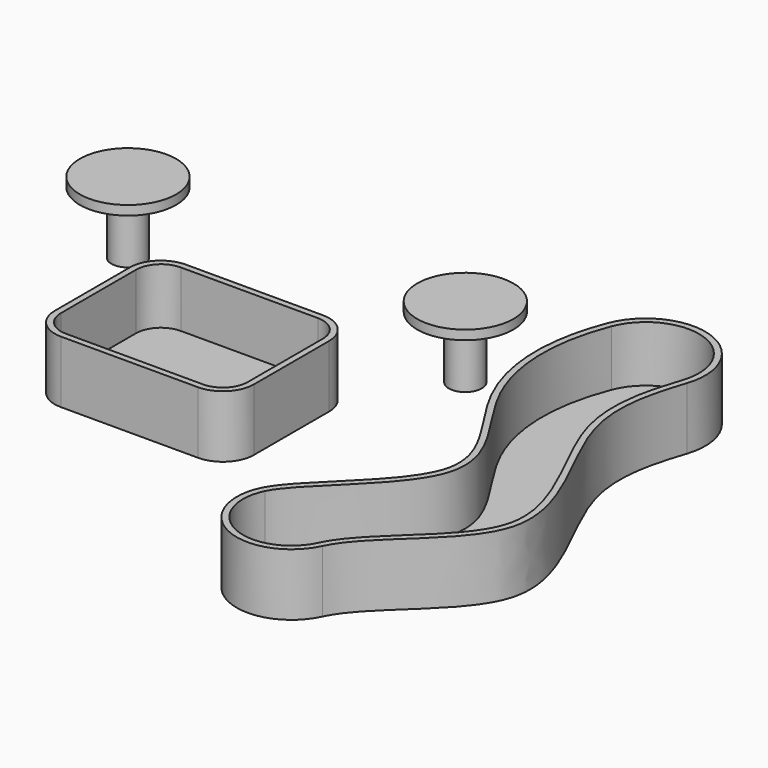
from build123d import *

# Parameters (mm, degrees)
F1_DEPTH = 25.4
F0_R     = 6.7570179325
F2_T     = -2.54
F2_2_T   = -2.54
F3_R     = 19.6881270067
F4_DEPTH = 3.81


with BuildPart() as f1:
    # F0 (on Top) → F1 (new body)
    with BuildSketch(Plane.XY):
        with BuildLine():
            Line((-51.6256136656, 25.91191791), (-107.6706264496, 25.91191791))
            ThreePointArc((-107.6706264496, 25.91191791), (-116.6508825707, 22.192174031), (-120.3706264496, 13.21191791))
            Line((-120.3706264496, 13.21191791), (-120.3706264496, -25.1758167684))
            ThreePointArc((-120.3706264496, -25.1758167684), (-116.6508825707, -34.1560728895), (-107.6706264496, -37.8758167684))
            Line((-107.6706264496, -37.8758167684), (-51.6256136656, -37.8758167684))
            ThreePointArc((-51.6256136656, -37.8758167684), (-42.6453575445, -34.1560728895), (-38.9256136656, -25.1758167684))
            Line((-38.9256136656, -25.1758167684), (-38.9256136656, 13.21191791))
            ThreePointArc((-38.9256136656, 13.21191791), (-42.6453575445, 22.192174031), (-51.6256136656, 25.91191791))
        make_face()
    extrude(amount=F1_DEPTH)

    # F2
    f2_openings = [f1.faces().sort_by_distance(p)[0] for p in [
        (-79.64812, -5.981949, 25.4),
    ]]
    offset(amount=F2_T, openings=f2_openings)


with BuildPart() as f1b:
    # F0 (on Top) → F1, piece 2 (new body)
    with BuildSketch(Plane.XY):
        with Locations((-17.5896137953, 56.1704323828)):
            Circle(F0_R)
    extrude(amount=F1_DEPTH)

    # F3 (on face) → F4 (join)
    with BuildSketch(Plane.XY.offset(25.4)):
        with Locations((-17.5896137953, 56.1704323828)):
            Circle(F3_R)
    extrude(amount=F4_DEPTH)


with BuildPart() as f1c:
    # F0 (on Top) → F1, piece 3 (new body)
    with BuildSketch(Plane.XY):
        with BuildLine():
            ThreePointArc((7.6418987393, -79.4214194897), (18.0013295474, -109.4598329236), (47.941673749, -98.8202898234))
            add(Edge.make_bspline(
                [(47.941673749, -98.8202898234), (55.4502251868, -82.8416166865), (110.7840802991, -54.1017406338), (56.9519975453, 16.7581127666), (63.3215386789, 46.2723188947), (68.5230454133, 61.9553197834)],
                knots=[0, 0, 0, 0, 0.344390464, 0.7067911496, 1, 1, 1, 1], degree=3))
            ThreePointArc((68.5230454133, 61.9553197834), (53.6939757803, 92.4840363922), (22.7908057452, 78.4520042604))
            add(Edge.make_bspline(
                [(7.6418987393, -79.4214194897), (13.9690822326, -66.5853217289), (66.2694313671, -32.4608717435), (16.8000155134, 14.9669406164), (14.0936275728, 56.1704323828), (22.7908057452, 78.4520042604)],
                knots=[0, 0, 0, 0, 0.3400354165, 0.654159998, 1, 1, 1, 1], degree=3))
        make_face()
    extrude(amount=F1_DEPTH)

    # F2#2
    f2_2_openings = [f1c.faces().sort_by_distance(p)[0] for p in [
        (47.041833, -10.906688, 25.4),
    ]]
    offset(amount=F2_2_T, openings=f2_2_openings, kind=Kind.INTERSECTION)


with BuildPart() as f5_1:
    # F5: copy of F1b
    add(f1b.part.moved(Location((-137.922, 0, 0))))


solid = Compound([f1.part, f1b.part, f1c.part, f5_1.part])
